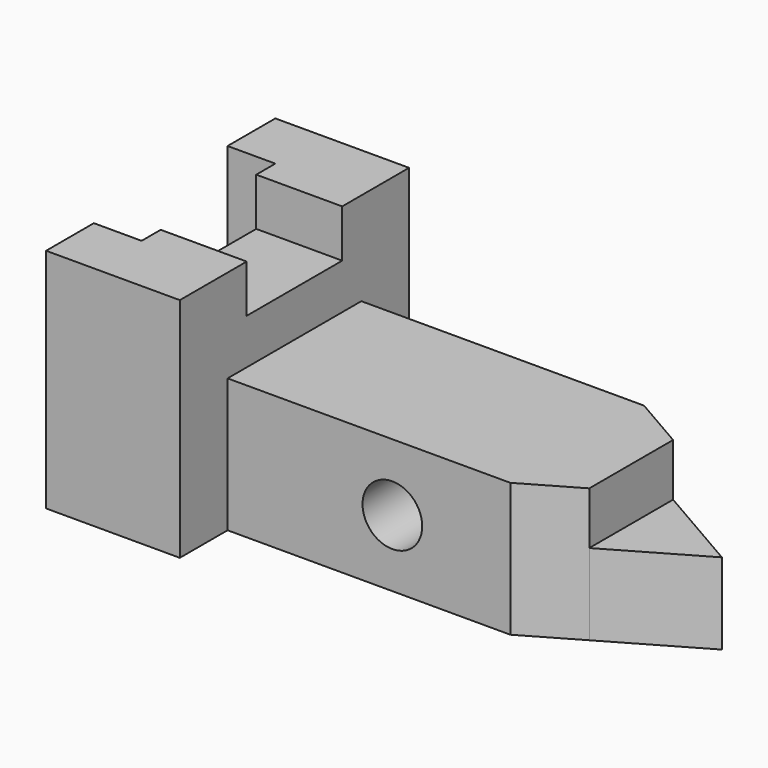
from build123d import *

# Parameters (mm, degrees)
F1_DEPTH = 28.448
F2_DEPTH = 17.272
F3_DEPTH = 48.26
F0_W     = 18.288
F0_H     = 25.4
F4_DEPTH = 38.1
F5_R     = 6.35
F6_DEPTH = 53.34


with BuildPart() as f1:
    # F0 (on Top) → F1 (new body)
    with BuildSketch(Plane.XY):
        Polygon((41.672072, 25.770297), (-18.464064, 25.770297), (-18.464064, 20.690297), (-18.464064, -4.709703), (-18.464064, -9.789703), (41.672072, -9.789703), (53.163936, -3.154872), (53.163936, 19.135467), align=None)
    extrude(amount=F1_DEPTH)

    # F0 (on Top) → F2 (join)
    with BuildSketch(Plane.XY):
        Polygon((72.467936, 7.990297), (53.163936, 19.135467), (53.163936, -3.154872), align=None)
    extrude(amount=F2_DEPTH)

    # F0 (on Top) → F3 (join)
    with BuildSketch(Plane.XY):
        Polygon((-18.464064, 38.470297), (-46.912064, 38.470297), (-46.912064, 25.770297), (-36.752064, 25.770297), (-36.752064, 20.690297), (-18.464064, 20.690297), (-18.464064, 25.770297), align=None)
        Polygon((-18.464064, -9.789703), (-18.464064, -4.709703), (-36.752064, -4.709703), (-36.752064, -9.789703), (-46.912064, -9.789703), (-46.912064, -22.489703), (-18.464064, -22.489703), align=None)
    extrude(amount=F3_DEPTH)

    # F0 (on Top) → F4 (join)
    with BuildSketch(Plane.XY):
        with Locations((-27.608064, 7.990297)):
            Rectangle(F0_W, F0_H)
    extrude(amount=F4_DEPTH)

    # F5 (on face) → F6 (cut)
    with BuildSketch(Plane.XZ.offset(9.789703)):
        with Locations((16.587936, 14.224)):
            Circle(F5_R)
    extrude(amount=-F6_DEPTH, mode=Mode.SUBTRACT)


solid = f1.part
